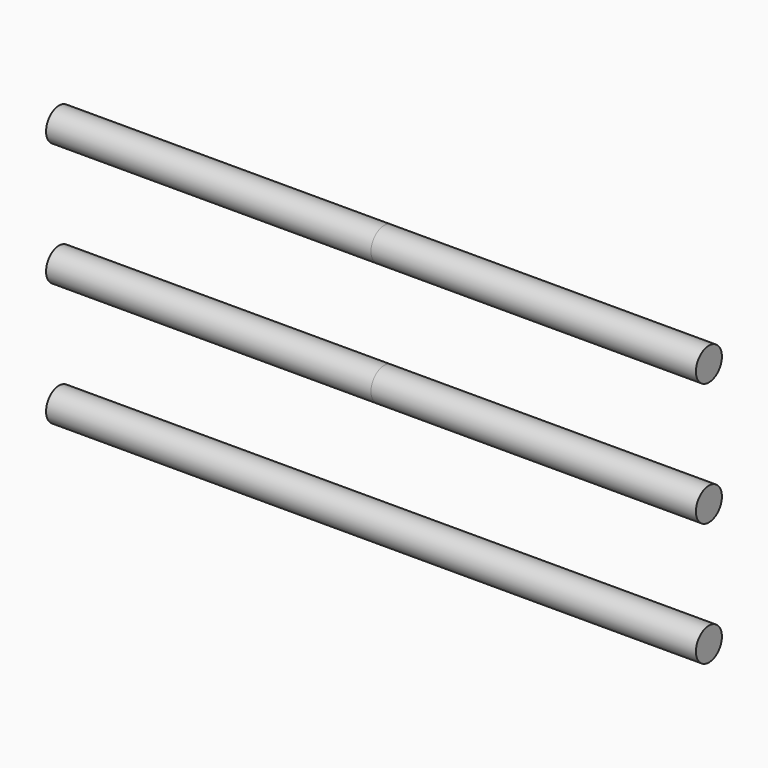
from build123d import *

# Parameters (mm, degrees)
F0_R     = 1.45
F1_DEPTH = 29


with BuildPart() as f1:
    # F0 (on Right) → F1 (new body, symmetric)
    with BuildSketch(Plane.YZ):
        with Locations((0, 22)):
            Circle(F0_R)
        with Locations((0, 11)):
            Circle(F0_R)
        Circle(F0_R)
    extrude(amount=F1_DEPTH, both=True)


solid = f1.part
